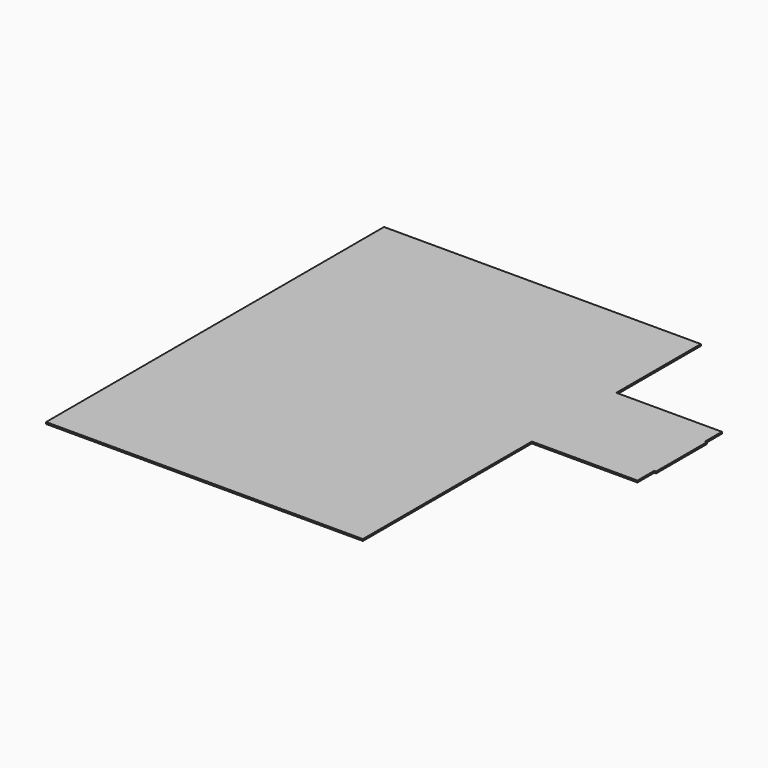
from build123d import *

# Parameters (mm, degrees)
F0_W     = 1524
F0_H     = 1524
F1_DEPTH = 25.4
F2_W     = 914.4
F2_H     = 25.4
F3_DEPTH = 25.4


with BuildPart() as f1:
    # F0 (on Top) → F1 (new body)
    with BuildSketch(Plane.XY):
        with Locations((5334, 2286)):
            Rectangle(F0_W, F0_H)
        with Locations((762, -762)):
            Rectangle(F0_W, F0_H)
        with Locations((762, 3810)):
            Rectangle(F0_W, F0_H)
        with Locations((3810, -762)):
            Rectangle(F0_W, F0_H)
        with Locations((3810, 3810)):
            Rectangle(F0_W, F0_H)
        with Locations((762, 762)):
            Rectangle(F0_W, F0_H)
        with Locations((762, 2286)):
            Rectangle(F0_W, F0_H)
        with Locations((2286, -762)):
            Rectangle(F0_W, F0_H)
        with Locations((2286, 3810)):
            Rectangle(F0_W, F0_H)
        with Locations((3810, 762)):
            Rectangle(F0_W, F0_H)
        with Locations((2286, 762)):
            Rectangle(F0_W, F0_H)
        with Locations((2286, 2286)):
            Rectangle(F0_W, F0_H)
        with Locations((3810, 2286)):
            Rectangle(F0_W, F0_H)
    extrude(amount=-F1_DEPTH)

    # F2 (on face) → F3 (join)
    with BuildSketch(Plane.YZ.offset(6096)):
        with Locations((2286, -12.7)):
            Rectangle(F2_W, F2_H)
    extrude(amount=F3_DEPTH)


solid = f1.part
